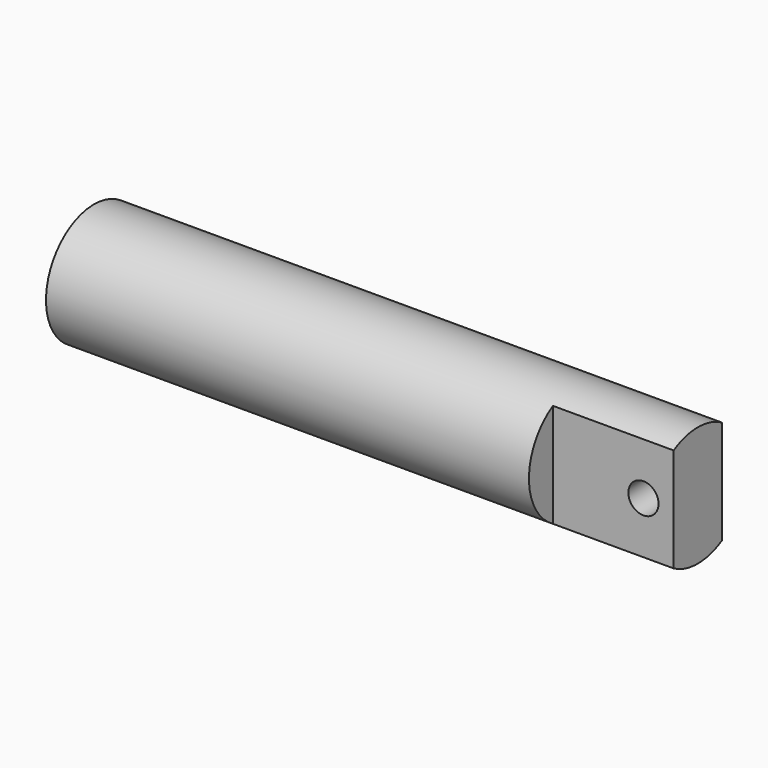
from build123d import *

# Parameters (mm, degrees)
F0_R     = 12.6365
F1_DEPTH = 127
F3_DEPTH = 25.4
F4_R     = 3.175
F5_DEPTH = 25.4


with BuildPart() as f1:
    # F0 (on Right) → F1 (new body)
    with BuildSketch(Plane.YZ):
        Circle(F0_R)
    extrude(amount=F1_DEPTH)

    # F2 (on face) → F3 (cut)
    with BuildSketch(Plane.YZ.offset(127)):
        with BuildLine():
            ThreePointArc((-6.35, 10.925138), (-12.6365, 0), (-6.35, -10.925138))
            Line((-6.35, -10.925138), (-6.35, 10.925138))
        make_face()
        with BuildLine():
            Line((6.35, 10.925138), (6.35, -10.925138))
            ThreePointArc((6.35, -10.925138), (10.952692, -6.302355), (12.6365, 0))
            ThreePointArc((12.6365, 0), (10.952692, 6.302355), (6.35, 10.925138))
        make_face()
    extrude(amount=-F3_DEPTH, mode=Mode.SUBTRACT)

    # F4 (on face) → F5 (cut)
    with BuildSketch(Plane.XZ.offset(6.35)):
        with Locations((120.65, 0)):
            Circle(F4_R)
    extrude(amount=-F5_DEPTH, mode=Mode.SUBTRACT)

    # F6 (on Front) → F7 (revolve, cut)
    with BuildSketch(Plane.XZ):
        with BuildLine():
            Line((-2.459253, 0), (7.178534, 0))
            ThreePointArc((7.178534, 0), (4.483036, 7.82304), (-2.459253, 12.325293))
            Line((-2.459253, 12.325293), (-2.459253, 0))
        make_face()
    revolve(axis=Axis((2.359641, 0, 0), (1, 0, 0)), mode=Mode.SUBTRACT)


solid = f1.part
